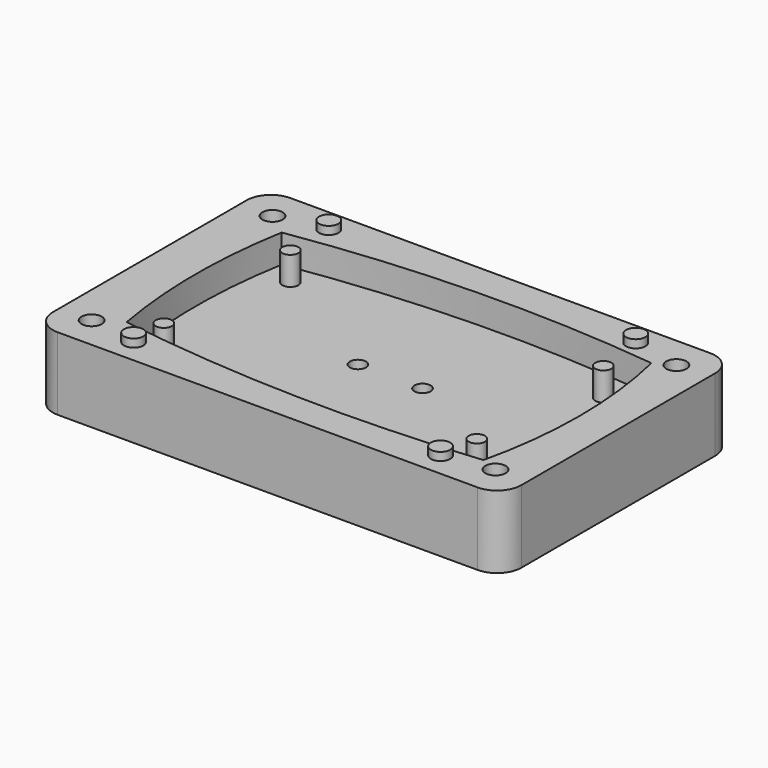
from build123d import *

# Parameters (mm, degrees)
F0_W     = 58
F0_H     = 36
F0_R     = 1.25
F0_R_2   = 1.2
F1_DEPTH = 9
F0_R_3   = 1
F2_DEPTH = 5.5
F3_DEPTH = 9
F4_R     = 3
F5_SIZE  = 2
F6_DEPTH = 10


with BuildPart() as f1:
    # F0 (on Top) → F1 (new body)
    with BuildSketch(Plane.XY):
        with Locations((22.1260370687, 12.181818096)):
            Rectangle(F0_W, F0_H)
        with Locations((-2.8739629313, -1.818181904)):
            Circle(F0_R, mode=Mode.SUBTRACT)
        with Locations((3.1260370687, -2.818181904)):
            Circle(F0_R_2, mode=Mode.SUBTRACT)
        with Locations((41.1260370687, -2.818181904)):
            Circle(F0_R_2, mode=Mode.SUBTRACT)
        with Locations((47.1260370687, -1.818181904)):
            Circle(F0_R, mode=Mode.SUBTRACT)
        with BuildLine():
            Line((-0.0042433119, 0.0237876128), (-0.0123524841, 0.02397218))
            Line((-0.0123524841, 0.02397218), (-0.0123524841, 0.0693824727))
            ThreePointArc((-0.0123524841, 0.0693824727), (-1.0671188126, 12.0466773263), (-0.0123524841, 24.02397218))
            ThreePointArc((-0.0123524841, 24.02397218), (22.4498159336, 26.0118318189), (44.9770614896, 25))
            ThreePointArc((44.9770614896, 25), (46.474513746, 12), (44.9770614896, -1))
            ThreePointArc((44.9770614896, -1), (22.4574664967, -1.8971785964), (0, 0))
            ThreePointArc((0, 0), (-0.0021227043, 0.0118936194), (-0.0042433119, 0.0237876128))
        make_face(mode=Mode.SUBTRACT)
        with Locations((-2.8739629313, 26.181818096)):
            Circle(F0_R, mode=Mode.SUBTRACT)
        with Locations((3.1260370687, 27.381818096)):
            Circle(F0_R_2, mode=Mode.SUBTRACT)
        with Locations((41.1260370687, 27.381818096)):
            Circle(F0_R_2, mode=Mode.SUBTRACT)
        with Locations((47.1260370687, 26.181818096)):
            Circle(F0_R, mode=Mode.SUBTRACT)
    extrude(amount=F1_DEPTH)

    # F0 (on Top) → F2 (join)
    with BuildSketch(Plane.XY):
        with BuildLine():
            Line((-0.0123524841, 24.02397218), (-0.0123524841, 0.0693824727))
            ThreePointArc((-0.0123524841, 0.0693824727), (-0.0083017494, 0.0465843578), (-0.0042433119, 0.0237876128))
            Line((-0.0042433119, 0.0237876128), (44.9770614896, -1))
            Line((44.9770614896, -1), (44.9770614896, 25))
            Line((44.9770614896, 25), (-0.0123524841, 24.02397218))
        make_face()
        with Locations((2.9444331303, 2.0848012064)):
            Circle(F0_R_3, mode=Mode.SUBTRACT)
        with Locations((41.6948273778, 2.0848012064)):
            Circle(F0_R_3, mode=Mode.SUBTRACT)
        with Locations((18.8074270263, 12.2937392443)):
            Circle(F0_R_3, mode=Mode.SUBTRACT)
        with Locations((2.9444331303, 21.6664075851)):
            Circle(F0_R_3, mode=Mode.SUBTRACT)
        with Locations((26.8074270263, 12.2937392443)):
            Circle(F0_R_3, mode=Mode.SUBTRACT)
        with Locations((41.6948273778, 21.6664075851)):
            Circle(F0_R_3, mode=Mode.SUBTRACT)
        with Locations((2.9444331303, 21.6664075851)):
            Circle(F0_R_3)
        with Locations((2.9444331303, 2.0848012064)):
            Circle(F0_R_3)
        with Locations((41.6948273778, 2.0848012064)):
            Circle(F0_R_3)
        with Locations((41.6948273778, 21.6664075851)):
            Circle(F0_R_3)
        with BuildLine():
            ThreePointArc((44.9770614896, 25), (22.4498159336, 26.0118318189), (-0.0123524841, 24.02397218))
            Line((-0.0123524841, 24.02397218), (44.9770614896, 25))
        make_face()
        with BuildLine():
            Line((44.9770614896, -1), (-0.0042433119, 0.0237876128))
            ThreePointArc((-0.0042433119, 0.0237876128), (-0.0021227043, 0.0118936194), (0, 0))
            ThreePointArc((0, 0), (22.4574664967, -1.8971785964), (44.9770614896, -1))
        make_face()
        with BuildLine():
            Line((44.9770614896, 25), (44.9770614896, -1))
            ThreePointArc((44.9770614896, -1), (46.474513746, 12), (44.9770614896, 25))
        make_face()
        with BuildLine():
            ThreePointArc((-0.0123524841, 24.02397218), (-1.0671188126, 12.0466773263), (-0.0123524841, 0.0693824727))
            Line((-0.0123524841, 0.0693824727), (-0.0123524841, 24.02397218))
        make_face()
    extrude(amount=F2_DEPTH)

    # F0 (on Top) → F3 (join)
    with BuildSketch(Plane.XY):
        with Locations((41.6948273778, 21.6664075851)):
            Circle(F0_R_3)
        with Locations((2.9444331303, 21.6664075851)):
            Circle(F0_R_3)
        with Locations((2.9444331303, 2.0848012064)):
            Circle(F0_R_3)
        with Locations((41.6948273778, 2.0848012064)):
            Circle(F0_R_3)
    extrude(amount=F3_DEPTH)

    # F4
    f4_edges = [f1.edges().sort_by_distance(p)[0] for p in [
        (51.126037, 30.181818, 4.5),
        (51.126037, -5.818182, 4.5),
        (-6.873963, -5.818182, 4.5),
        (-6.873963, 30.181818, 4.5),
    ]]
    fillet(f4_edges, radius=F4_R)

    # F5
    f5_edges = [f1.edges().sort_by_distance(p)[0] for p in [
        (-4.123963, -1.818182, 0),
        (-4.123963, 26.181818, 0),
        (45.876037, -1.818182, 0),
        (45.876037, 26.181818, 0),
    ]]
    chamfer(f5_edges, length=F5_SIZE)

    # F0 (on Top) → F6 (join)
    with BuildSketch(Plane.XY):
        with Locations((3.1260370687, 27.381818096)):
            Circle(F0_R_2)
        with Locations((3.1260370687, -2.818181904)):
            Circle(F0_R_2)
        with Locations((41.1260370687, -2.818181904)):
            Circle(F0_R_2)
        with Locations((41.1260370687, 27.381818096)):
            Circle(F0_R_2)
    extrude(amount=F6_DEPTH)


solid = f1.part
